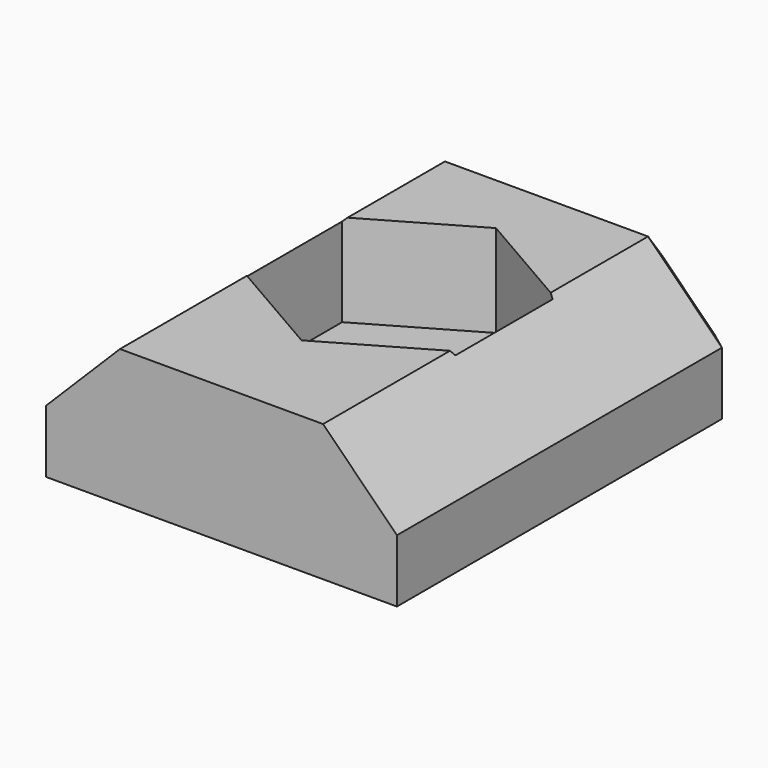
from build123d import *

# Parameters (mm, degrees)
F1_DEPTH = 6
F2_R     = 1.6
F3_DEPTH = 3.7
F5_SIZE2 = 2
F5_SIZE  = 2
F6_DEPTH = 2.5
F7_SIZE  = 1


with BuildPart() as f1:
    # F0 (on Front) → F1 (new body, symmetric)
    with BuildSketch(Plane.XZ):
        Polygon((-4.75, 0), (0, 0), (4.75, 0), (4.75, 3.7), (-4.75, 3.7), align=None)
    extrude(amount=F1_DEPTH, both=True)

    # F2 (on face) → F3 (cut, through all)
    with BuildSketch(Plane.XY.offset(3.7)):
        Circle(F2_R)
    extrude(amount=-F3_DEPTH, mode=Mode.SUBTRACT)

    # F5
    f5_edges = [f1.edges().sort_by_distance(p)[0] for p in [
        (-4.75, 0, 3.7),
        (4.75, 0, 3.7),
    ]]
    chamfer(f5_edges, length=F5_SIZE, length2=F5_SIZE2)

    # F4 (on face) → F6 (cut)
    with BuildSketch(Plane.XY.offset(3.7)):
        Polygon((2.85, -1.6454482672), (2.85, 1.6454482672), (0, 3.2908965344), (-2.85, 1.6454482672), (-2.85, -1.6454482672), (0, -3.2908965344), align=None)
    extrude(amount=-F6_DEPTH, mode=Mode.SUBTRACT)

    # F7
    f7_edges = [f1.edges().sort_by_distance(p)[0] for p in [
        (3.75, 6, 2.7),
        (-3.75, 6, 2.7),
        (-4.75, 6, 0.85),
        (4.75, 6, 0.85),
        (0, 6, 3.7),
    ]]
    chamfer(f7_edges, length=F7_SIZE)


solid = f1.part
